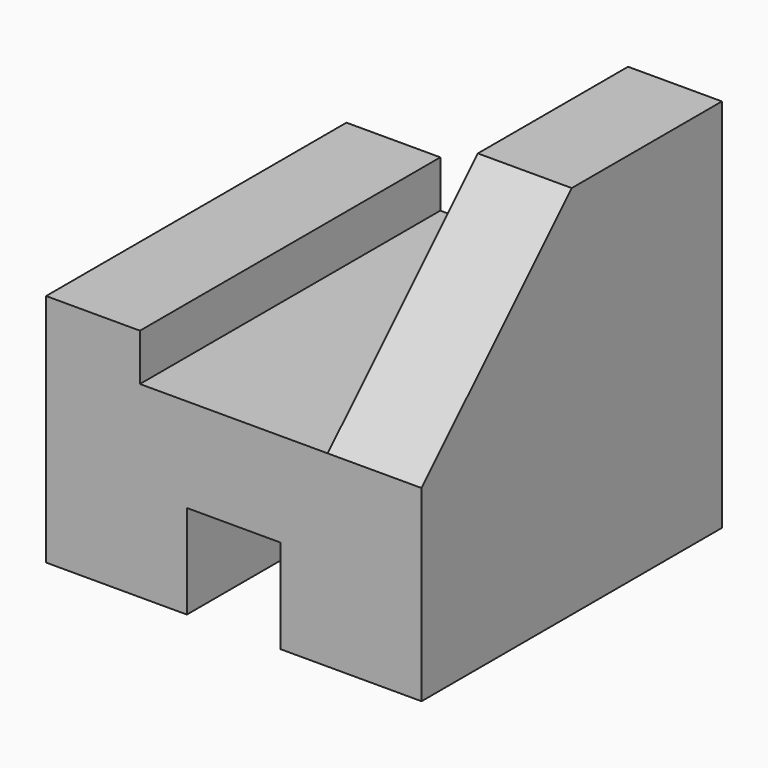
from build123d import *

# Parameters (mm, degrees)
F1_DEPTH = 101.6
F3_DEPTH = 50.8


with BuildPart() as f1:
    # F0 (on Front) → F1 (new body)
    with BuildSketch(Plane.XZ):
        Polygon((-61.717904, 20.360967), (-61.717904, -43.139033), (-23.617904, -43.139033), (-23.617904, -17.739033), (1.782096, -17.739033), (1.782096, -43.139033), (39.882096, -43.139033), (39.882096, 58.460967), (14.482096, 58.460967), (14.482096, 7.660967), (-36.317904, 7.660967), (-36.317904, 20.360967), align=None)
    extrude(amount=F1_DEPTH)

    # F2 (on face) → F3 (cut)
    with BuildSketch(Plane.YZ.offset(39.882096)):
        Polygon((-50.8, 58.460967), (-101.6, 58.460967), (-101.6, 7.660967), align=None)
    extrude(amount=-F3_DEPTH, mode=Mode.SUBTRACT)


solid = f1.part
